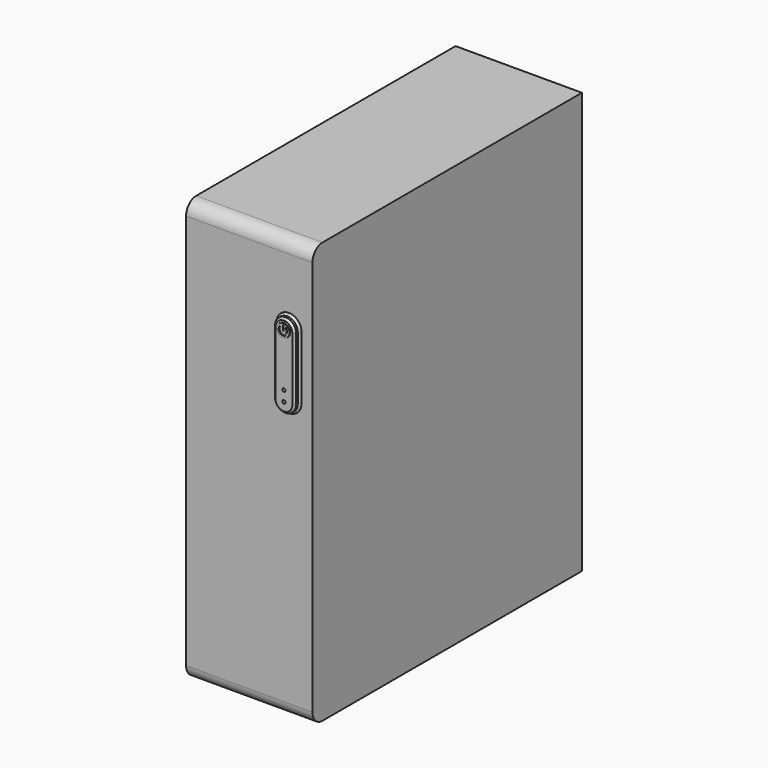
from build123d import *

# Parameters (mm, degrees)
F0_W      = 800
F0_H      = 1000
F1_DEPTH  = 300
F2_R      = 30
F4_DEPTH  = 287.5
F5_R      = 2.162666
F6_DEPTH  = 25
F8_DEPTH  = 15
F9_SIZE   = 5
F10_R     = 15
F11_DEPTH = 2
F12_R     = 3.75
F13_DEPTH = 20
F14_R     = 30
F15_DEPTH = 7.5


with BuildPart() as f1:
    # F0 (on Right) → F1 (new body)
    with BuildSketch(Plane.YZ):
        Rectangle(F0_W, F0_H)
    extrude(amount=F1_DEPTH)

    # F2
    f2_edges = [f1.edges().sort_by_distance(p)[0] for p in [
        (150, -400, 500),
        (150, -400, -500),
    ]]
    fillet(f2_edges, radius=F2_R)

    # F3 (on face) → F4 (cut)
    with BuildSketch(Plane(origin=(0, 0, 0), x_dir=(0, -1, 0), z_dir=(-1, 0, 0))):
        with BuildLine():
            Line((-387.5, 487.5), (-387.5, -487.5))
            Line((-387.5, -487.5), (367.5, -487.5))
            ThreePointArc((367.5, -487.5), (381.642136, -481.642136), (387.5, -467.5))
            Line((387.5, -467.5), (387.5, 467.5))
            ThreePointArc((387.5, 467.5), (381.642136, 481.642136), (367.5, 487.5))
            Line((367.5, 487.5), (-387.5, 487.5))
        make_face()
    extrude(amount=-F4_DEPTH, mode=Mode.SUBTRACT)

    # F5 (on face) → F6 (cut)
    with BuildSketch(Plane(origin=(0, 400, 0), x_dir=(-1, 0, 0), z_dir=(0, 1, 0))):
        with BuildLine():
            Line((-214.118924, 475), (-261.462748, 475))
            ThreePointArc((-261.462748, 475), (-276.918235, 474.874673), (-274.336556, 459.635818))
            Line((-274.336556, 459.635818), (-274.336556, 428.506063))
            ThreePointArc((-274.336556, 428.506063), (-281.158562, 421.684057), (-274.336556, 414.86205))
            Line((-274.336556, 414.86205), (-274.336556, 350))
            Line((-274.336556, 350), (-214.118924, 350))
            ThreePointArc((-214.118924, 350), (-212.70471, 349.414214), (-212.118924, 348))
            Line((-212.118924, 348), (-212.118924, 340))
            ThreePointArc((-212.118924, 340), (-211.533137, 338.585786), (-210.118924, 338))
            Line((-210.118924, 338), (-196.118924, 338))
            ThreePointArc((-196.118924, 338), (-194.118924, 340), (-196.118924, 342))
            Line((-196.118924, 342), (-206.118924, 342))
            ThreePointArc((-206.118924, 342), (-207.533137, 342.585786), (-208.118924, 344))
            Line((-208.118924, 344), (-208.118924, 348))
            ThreePointArc((-208.118924, 348), (-207.533137, 349.414214), (-206.118924, 350))
            Line((-206.118924, 350), (-152.166363, 350))
            ThreePointArc((-152.166363, 350), (-150.752149, 349.414214), (-150.166363, 348))
            Line((-150.166363, 348), (-150.166363, 340))
            ThreePointArc((-150.166363, 340), (-149.580576, 338.585786), (-148.166363, 338))
            Line((-148.166363, 338), (-134.166363, 338))
            ThreePointArc((-134.166363, 338), (-132.166363, 340), (-134.166363, 342))
            Line((-134.166363, 342), (-144.166363, 342))
            ThreePointArc((-144.166363, 342), (-145.580576, 342.585786), (-146.166363, 344))
            Line((-146.166363, 344), (-146.166363, 348))
            ThreePointArc((-146.166363, 348), (-145.580576, 349.414214), (-144.166363, 350))
            Line((-144.166363, 350), (-74.336556, 350))
            Line((-74.336556, 350), (-74.336556, 364.400569))
            ThreePointArc((-74.336556, 364.400569), (-65.336556, 373.400569), (-74.336556, 382.400569))
            Line((-74.336556, 382.400569), (-74.336556, 388.44103))
            ThreePointArc((-74.336556, 388.44103), (-74.922342, 389.855244), (-76.336556, 390.44103))
            Line((-76.336556, 390.44103), (-84.336852, 390.44103))
            ThreePointArc((-84.336852, 390.44103), (-85.751066, 391.026817), (-86.336852, 392.44103))
            Line((-86.336852, 392.44103), (-86.336852, 406.44103))
            ThreePointArc((-86.336852, 406.44103), (-84.336704, 408.441178), (-82.336556, 406.44103))
            Line((-82.336556, 406.44103), (-82.336556, 396.44103))
            ThreePointArc((-82.336556, 396.44103), (-81.750769, 395.026817), (-80.336556, 394.44103))
            Line((-80.336556, 394.44103), (-76.336556, 394.44103))
            ThreePointArc((-76.336556, 394.44103), (-74.922342, 395.026817), (-74.336556, 396.44103))
            Line((-74.336556, 396.44103), (-74.336556, 413.516909))
            Line((-74.336556, 413.516909), (-71.336556, 413.516909))
            ThreePointArc((-71.336556, 413.516909), (-70.336556, 414.516909), (-71.336556, 415.516909))
            Line((-71.336556, 415.516909), (-74.336556, 415.516909))
            Line((-74.336556, 415.516909), (-74.336556, 473))
            Line((-74.336556, 473), (-71.336556, 473))
            ThreePointArc((-71.336556, 473), (-70.629449, 473.292893), (-70.336556, 474))
            ThreePointArc((-70.336556, 474), (-70.629449, 474.707107), (-71.336556, 475))
            Line((-71.336556, 475), (-74.336556, 475))
            Line((-74.336556, 475), (-81.430964, 475))
            ThreePointArc((-81.430964, 475), (-84.930964, 478.5), (-88.430964, 475))
            Line((-88.430964, 475), (-144.166363, 475))
            ThreePointArc((-144.166363, 475), (-145.580576, 475.585786), (-146.166363, 477))
            Line((-146.166363, 477), (-146.166363, 481))
            ThreePointArc((-146.166363, 481), (-145.580576, 482.414214), (-144.166363, 483))
            Line((-144.166363, 483), (-134.166363, 483))
            ThreePointArc((-134.166363, 483), (-132.166363, 485), (-134.166363, 487))
            Line((-134.166363, 487), (-148.166363, 487))
            ThreePointArc((-148.166363, 487), (-149.580576, 486.414214), (-150.166363, 485))
            Line((-150.166363, 485), (-150.166363, 477))
            ThreePointArc((-150.166363, 477), (-150.752149, 475.585786), (-152.166363, 475))
            Line((-152.166363, 475), (-206.118924, 475))
            ThreePointArc((-206.118924, 475), (-207.533137, 475.585786), (-208.118924, 477))
            Line((-208.118924, 477), (-208.118924, 481))
            ThreePointArc((-208.118924, 481), (-207.533137, 482.414214), (-206.118924, 483))
            Line((-206.118924, 483), (-196.118924, 483))
            ThreePointArc((-196.118924, 483), (-194.118924, 485), (-196.118924, 487))
            Line((-196.118924, 487), (-210.118924, 487))
            ThreePointArc((-210.118924, 487), (-211.533137, 486.414214), (-212.118924, 485))
            Line((-212.118924, 485), (-212.118924, 477))
            ThreePointArc((-212.118924, 477), (-212.70471, 475.585786), (-214.118924, 475))
        make_face()
        with Locations((-269.137114, 483.943254)):
            Circle(F5_R)
    extrude(amount=-F6_DEPTH, mode=Mode.SUBTRACT)

    # F7 (on face) → F8 (join)
    with BuildSketch(Plane.XZ.offset(400)):
        with BuildLine():
            ThreePointArc((244.205779, 341.809909), (226.528109, 334.487578), (219.205779, 316.809909))
            Line((219.205779, 316.809909), (219.205779, 166.809909))
            ThreePointArc((219.205779, 166.809909), (226.528109, 149.132239), (244.205779, 141.809909))
            ThreePointArc((244.205779, 141.809909), (261.883448, 149.132239), (269.205779, 166.809909))
            Line((269.205779, 166.809909), (269.205779, 316.809909))
            ThreePointArc((269.205779, 316.809909), (261.883448, 334.487578), (244.205779, 341.809909))
        make_face()
    extrude(amount=F8_DEPTH)

    # F9
    f9_edges = [f1.edges().sort_by_distance(p)[0] for p in [
        (219.205779, -407.5, 316.809909),
        (219.205779, -407.5, 166.809909),
        (219.205779, -400, 241.809909),
        (219.205779, -415, 241.809909),
    ]]
    chamfer(f9_edges, length=F9_SIZE)

    # F10 (on face) → F11 (join)
    with BuildSketch(Plane.XZ.offset(415)):
        with Locations((244.205779, 316.809909)):
            Circle(F10_R)
        with BuildLine():
            ThreePointArc((236.002863, 323.692972), (237.958707, 323.864086), (238.129821, 321.908243))
            ThreePointArc((238.129821, 321.908243), (244.205779, 308.878309), (250.281737, 321.908243))
            ThreePointArc((250.281737, 321.908243), (250.452851, 323.864086), (252.408694, 323.692972))
            ThreePointArc((252.408694, 323.692972), (244.205779, 306.101763), (236.002863, 323.692972))
        make_face(mode=Mode.SUBTRACT)
        with BuildLine():
            ThreePointArc((244.899914, 316.809909), (244.205779, 316.115774), (243.511644, 316.809909))
            Line((243.511644, 316.809909), (243.511644, 327.513516))
            ThreePointArc((243.511644, 327.513516), (244.205779, 328.207651), (244.899914, 327.513516))
            Line((244.899914, 327.513516), (244.899914, 316.809909))
        make_face(mode=Mode.SUBTRACT)
    extrude(amount=F11_DEPTH)

    # F12 (on face) → F13 (cut)
    with BuildSketch(Plane.XZ.offset(415)):
        with Locations((244.205779, 191.809909)):
            Circle(F12_R)
        with Locations((244.205779, 166.809909)):
            Circle(F12_R)
    extrude(amount=-F13_DEPTH, mode=Mode.SUBTRACT)

    # F14 (on face) → F15 (join)
    with BuildSketch(Plane(origin=(0, 0, -500), x_dir=(1, 0, 0), z_dir=(0, 0, -1))):
        with Locations((240, -340)):
            Circle(F14_R)
        with Locations((60, -340)):
            Circle(F14_R)
        with Locations((240, 310)):
            Circle(F14_R)
        with Locations((58.350662, 310)):
            Circle(F14_R)
    extrude(amount=F15_DEPTH)


solid = f1.part
